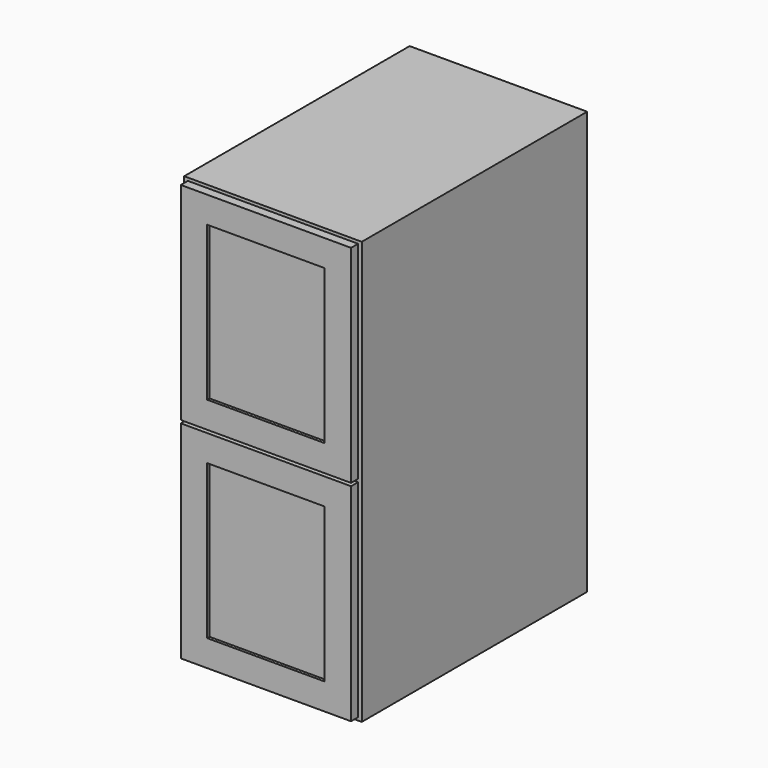
from build123d import *

# Parameters (mm, degrees)
F0_W     = 384.175
F0_H     = 609.6
F1_DEPTH = 914.4
F2_T     = -12.7
F3_W     = 28.575
F3_H     = 17.4625
F3_W_2   = 301.625
F3_W_3   = 4.7625
F3_H_2   = 6.35
F4_DEPTH = 19.05
F5_DEPTH = 19.05
F3_H_3   = 395.2875
F3_W_4   = 254
F3_H_4   = 333.375
F6_DEPTH = 19.05
F7_W     = 7.9375
F7_H     = 333.375
F8_DEPTH = 254


with BuildPart() as f1:
    # F0 (on Top) → F1 (new body)
    with BuildSketch(Plane.XY):
        Rectangle(F0_W, F0_H)
    extrude(amount=F1_DEPTH)

    # F2
    f2_openings = [f1.faces().sort_by_distance(p)[0] for p in [
        (0, -304.8, 457.2),
    ]]
    offset(amount=F2_T, openings=f2_openings)

    # F3 (on face) → F4 (join)
    with BuildSketch(Plane.XZ.offset(304.8)):
        Polygon((-192.0875, 477.8375), (-192.0875, 436.5625), (-184.15, 436.5625), (-184.15, 454.025), (-179.3875, 454.025), (-179.3875, 460.375), (-184.15, 460.375), (-184.15, 477.8375), align=None)
        with Locations((-165.1, 445.29375)):
            Rectangle(F3_W, F3_H)
        with Locations((-165.1, 469.10625)):
            Rectangle(F3_W, F3_H)
        with Locations((0, 445.29375)):
            Rectangle(F3_W_2, F3_H)
        with Locations((0, 469.10625)):
            Rectangle(F3_W_2, F3_H)
        with Locations((165.1, 445.29375)):
            Rectangle(F3_W, F3_H)
        with Locations((165.1, 469.10625)):
            Rectangle(F3_W, F3_H)
        Polygon((184.15, 436.5625), (192.0875, 436.5625), (192.0875, 477.8375), (184.15, 477.8375), (184.15, 460.375), (179.3875, 460.375), (179.3875, 454.025), (184.15, 454.025), align=None)
        with Locations((181.76875, 445.29375)):
            Rectangle(F3_W_3, F3_H)
        with Locations((181.76875, 469.10625)):
            Rectangle(F3_W_3, F3_H)
        with Locations((165.1, 457.2)):
            Rectangle(F3_W, F3_H_2)
        with Locations((-165.1, 457.2)):
            Rectangle(F3_W, F3_H_2)
        with Locations((-181.76875, 445.29375)):
            Rectangle(F3_W_3, F3_H)
        with Locations((-181.76875, 469.10625)):
            Rectangle(F3_W_3, F3_H)
        with Locations((0, 457.2)):
            Rectangle(F3_W_2, F3_H_2)
    extrude(amount=-F4_DEPTH)

    # F3 (on face) → F5 (join)
    with BuildSketch(Plane.XZ.offset(304.8)):
        Polygon((-179.3875, 901.7), (-179.3875, 477.8375), (-150.8125, 477.8375), (-150.8125, 873.125), (150.8125, 873.125), (150.8125, 477.8375), (179.3875, 477.8375), (179.3875, 901.7), align=None)
        Polygon((-192.0875, 914.4), (-192.0875, 477.8375), (-184.15, 477.8375), (-184.15, 908.05), (184.15, 908.05), (184.15, 477.8375), (192.0875, 477.8375), (192.0875, 914.4), align=None)
        Polygon((-150.8125, 436.5625), (-179.3875, 436.5625), (-179.3875, 12.7), (179.3875, 12.7), (179.3875, 436.5625), (150.8125, 436.5625), (150.8125, 41.275), (-150.8125, 41.275), align=None)
        Polygon((-184.15, 436.5625), (-192.0875, 436.5625), (-192.0875, 0), (192.0875, 0), (192.0875, 436.5625), (184.15, 436.5625), (184.15, 6.35), (-184.15, 6.35), align=None)
        Polygon((-179.3875, 436.5625), (-184.15, 436.5625), (-184.15, 6.35), (184.15, 6.35), (184.15, 436.5625), (179.3875, 436.5625), (179.3875, 12.7), (-179.3875, 12.7), align=None)
        with Locations((-165.1, 445.29375)):
            Rectangle(F3_W, F3_H)
        Polygon((-192.0875, 477.8375), (-192.0875, 436.5625), (-184.15, 436.5625), (-184.15, 454.025), (-179.3875, 454.025), (-179.3875, 460.375), (-184.15, 460.375), (-184.15, 477.8375), align=None)
        with Locations((-181.76875, 445.29375)):
            Rectangle(F3_W_3, F3_H)
        with Locations((-165.1, 469.10625)):
            Rectangle(F3_W, F3_H)
        with Locations((165.1, 469.10625)):
            Rectangle(F3_W, F3_H)
        with Locations((165.1, 445.29375)):
            Rectangle(F3_W, F3_H)
        Polygon((184.15, 436.5625), (192.0875, 436.5625), (192.0875, 477.8375), (184.15, 477.8375), (184.15, 460.375), (179.3875, 460.375), (179.3875, 454.025), (184.15, 454.025), align=None)
        with Locations((181.76875, 445.29375)):
            Rectangle(F3_W_3, F3_H)
    extrude(amount=-F5_DEPTH)

    # F3 (on face) → F6 (join)
    with BuildSketch(Plane.XZ.offset(304.8)):
        Polygon((-150.8125, 436.5625), (-179.3875, 436.5625), (-179.3875, 12.7), (179.3875, 12.7), (179.3875, 436.5625), (150.8125, 436.5625), (150.8125, 41.275), (-150.8125, 41.275), align=None)
        Polygon((-179.3875, 436.5625), (-184.15, 436.5625), (-184.15, 6.35), (184.15, 6.35), (184.15, 436.5625), (179.3875, 436.5625), (179.3875, 12.7), (-179.3875, 12.7), align=None)
        with Locations((0, 238.91875)):
            Rectangle(F3_W_2, F3_H_3)
        with Locations((0, 230.1875)):
            Rectangle(F3_W_4, F3_H_4, mode=Mode.SUBTRACT)
        with Locations((0, 445.29375)):
            Rectangle(F3_W_2, F3_H)
        with Locations((-165.1, 445.29375)):
            Rectangle(F3_W, F3_H)
        with Locations((165.1, 445.29375)):
            Rectangle(F3_W, F3_H)
        with Locations((181.76875, 445.29375)):
            Rectangle(F3_W_3, F3_H)
        with Locations((-181.76875, 445.29375)):
            Rectangle(F3_W_3, F3_H)
        Polygon((-179.3875, 901.7), (-179.3875, 477.8375), (-150.8125, 477.8375), (-150.8125, 873.125), (150.8125, 873.125), (150.8125, 477.8375), (179.3875, 477.8375), (179.3875, 901.7), align=None)
        with Locations((0, 675.48125)):
            Rectangle(F3_W_2, F3_H_3)
        with Locations((0, 684.2125)):
            Rectangle(F3_W_4, F3_H_4, mode=Mode.SUBTRACT)
        with Locations((-165.1, 469.10625)):
            Rectangle(F3_W, F3_H)
        with Locations((0, 469.10625)):
            Rectangle(F3_W_2, F3_H)
        with Locations((165.1, 469.10625)):
            Rectangle(F3_W, F3_H)
        with Locations((181.76875, 469.10625)):
            Rectangle(F3_W_3, F3_H)
        Polygon((-184.15, 908.05), (-184.15, 477.8375), (-179.3875, 477.8375), (-179.3875, 901.7), (179.3875, 901.7), (179.3875, 477.8375), (184.15, 477.8375), (184.15, 908.05), align=None)
        with Locations((-181.76875, 469.10625)):
            Rectangle(F3_W_3, F3_H)
    extrude(amount=F6_DEPTH)

    # F7 (on face) → F8 (join, through all)
    with BuildSketch(Plane(origin=(127, 0, 0), x_dir=(0, -1, 0), z_dir=(-1, 0, 0))):
        with Locations((313.53125, 230.1875)):
            Rectangle(F7_W, F7_H)
        with Locations((313.53125, 684.2125)):
            Rectangle(F7_W, F7_H)
    extrude(amount=F8_DEPTH)


solid = f1.part
